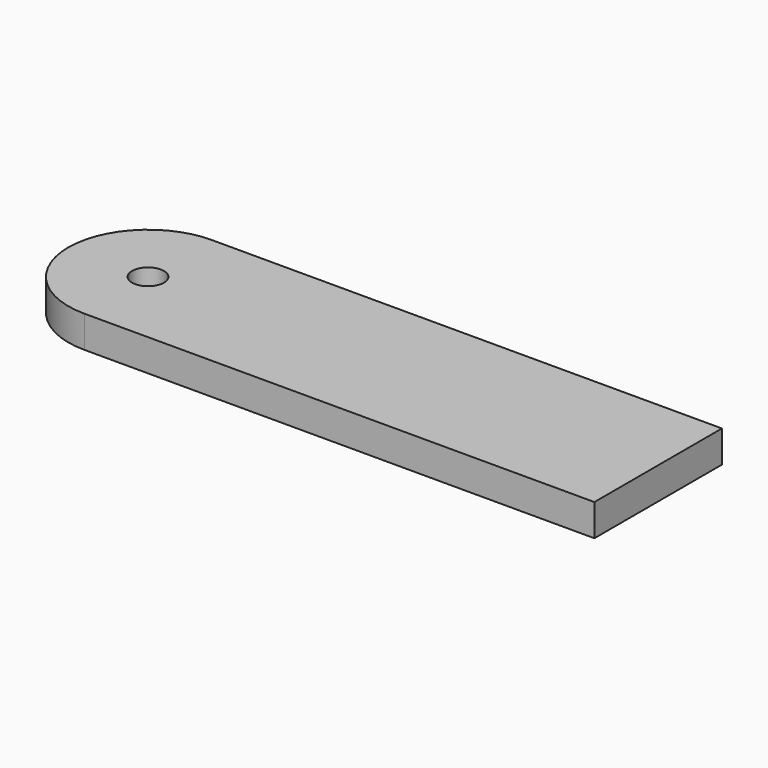
from build123d import *

# Parameters (mm, degrees)
F0_R     = 6.35
F1_DEPTH = 12.7


with BuildPart() as f1:
    # F0 (on Top) → F1 (new body)
    with BuildSketch(Plane.XY):
        with BuildLine():
            ThreePointArc((0, 31.75), (22.45064, 22.45064), (31.75, 0))
            ThreePointArc((31.75, 0), (22.45064, -22.45064), (0, -31.75))
            Line((0, -31.75), (203.2, -31.75))
            Line((203.2, -31.75), (203.2, 31.75))
            Line((203.2, 31.75), (0, 31.75))
        make_face()
        with BuildLine():
            ThreePointArc((0, -31.75), (22.45064, -22.45064), (31.75, 0))
            ThreePointArc((31.75, 0), (22.45064, 22.45064), (0, 31.75))
            ThreePointArc((0, 31.75), (-31.75, 0), (0, -31.75))
        make_face()
        Circle(F0_R, mode=Mode.SUBTRACT)
    extrude(amount=F1_DEPTH)


solid = f1.part
